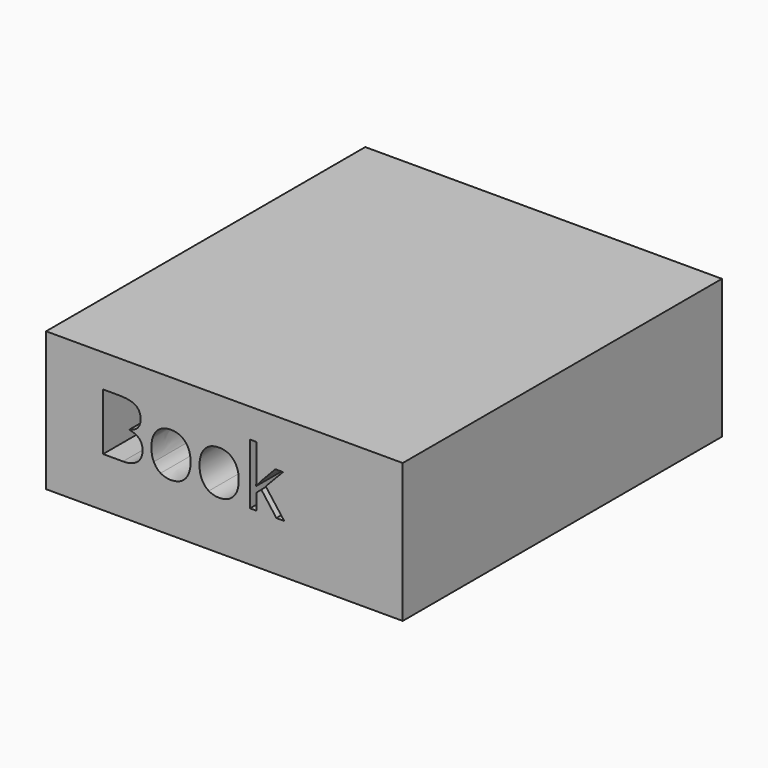
from build123d import *

# Parameters (mm, degrees)
F0_W     = 749.3
F0_H     = 292.1
F1_DEPTH = 838.2


with BuildPart() as f1:
    # F0 (on Front) → F1 (new body)
    with BuildSketch(Plane.XZ):
        with Locations((-61.3742305432, -53.1933567903)):
            Rectangle(F0_W, F0_H)
        with BuildLine():
            Line((-316.2865395393, -95.2928215265), (-316.2865395393, 24.2856664384))
            Line((-316.2865395393, 24.2856664384), (-282.4988774769, 24.2856664384))
            add(Edge.make_bspline(
                [(-282.4988774769, 24.2856664384), (-258.7088040341, 24.2856664384), (-248.0700088147, 17.1669645942)],
                knots=[0, 0, 0, 1, 1, 1], degree=2))
            add(Edge.make_bspline(
                [(-248.0700088147, 17.1669645942), (-237.4312135952, 10.0482627499), (-237.4312135952, -5.3145239508)],
                knots=[0, 0, 0, 1, 1, 1], degree=2))
            add(Edge.make_bspline(
                [(-237.4312135952, -5.3145239508), (-237.4312135952, -15.9664050192), (-243.3591031824, -22.8757332799)],
                knots=[0, 0, 0, 1, 1, 1], degree=2))
            add(Edge.make_bspline(
                [(-243.3591031824, -22.8757332799), (-249.2869927697, -29.7850615405), (-260.6716813809, -31.8264539811)],
                knots=[0, 0, 0, 1, 1, 1], degree=2))
            Line((-260.6716813809, -31.8264539811), (-260.6716813809, -32.6377766178))
            add(Edge.make_bspline(
                [(-260.6716813809, -32.6377766178), (-233.4269438078, -37.2963388541), (-233.4269438078, -61.2696141826)],
                knots=[0, 0, 0, 1, 1, 1], degree=2))
            add(Edge.make_bspline(
                [(-233.4269438078, -61.2696141826), (-233.4269438078, -77.2866933322), (-244.2620267619, -86.2897574294)],
                knots=[0, 0, 0, 1, 1, 1], degree=2))
            add(Edge.make_bspline(
                [(-244.2620267619, -86.2897574294), (-255.0971097161, -95.2928215265), (-274.568852996, -95.2928215265)],
                knots=[0, 0, 0, 1, 1, 1], degree=2))
            Line((-274.568852996, -95.2928215265), (-316.2865395393, -95.2928215265))
        make_face(mode=Mode.SUBTRACT)
        with BuildLine():
            add(Edge.make_bspline(
                [(-143.514075477, -16.5290965253), (-132.4303613922, -29.0522539977), (-132.4303613922, -50.3821878325)],
                knots=[0, 0, 0, 1, 1, 1], degree=2))
            add(Edge.make_bspline(
                [(-132.4303613922, -50.3821878325), (-132.4303613922, -72.3140707204), (-143.4617320811, -84.6278546091)],
                knots=[0, 0, 0, 1, 1, 1], degree=2))
            add(Edge.make_bspline(
                [(-143.4617320811, -84.6278546091), (-154.4931027699, -96.9416384978), (-173.9648460498, -96.9416384978)],
                knots=[0, 0, 0, 1, 1, 1], degree=2))
            add(Edge.make_bspline(
                [(-173.9648460498, -96.9416384978), (-186.0038271099, -96.9416384978), (-195.3209515826, -91.2885517391)],
                knots=[0, 0, 0, 1, 1, 1], degree=2))
            add(Edge.make_bspline(
                [(-195.3209515826, -91.2885517391), (-204.6380760552, -85.6354649804), (-209.7153854589, -75.0882707038)],
                knots=[0, 0, 0, 1, 1, 1], degree=2))
            add(Edge.make_bspline(
                [(-209.7153854589, -75.0882707038), (-214.7926948625, -64.5410764272), (-214.7926948625, -50.3821878325)],
                knots=[0, 0, 0, 1, 1, 1], degree=2))
            add(Edge.make_bspline(
                [(-214.7926948625, -50.3821878325), (-214.7926948625, -28.4764766426), (-203.8267534186, -16.2412078478)],
                knots=[0, 0, 0, 1, 1, 1], degree=2))
            add(Edge.make_bspline(
                [(-203.8267534186, -16.2412078478), (-192.8608119746, -4.005939053), (-173.3890686947, -4.005939053)],
                knots=[0, 0, 0, 1, 1, 1], degree=2))
            add(Edge.make_bspline(
                [(-173.3890686947, -4.005939053), (-154.5977895617, -4.005939053), (-143.514075477, -16.5290965253)],
                knots=[0, 0, 0, 1, 1, 1], degree=2))
        make_face(mode=Mode.SUBTRACT)
        with BuildLine():
            add(Edge.make_bspline(
                [(-42.3342911757, -16.5290965253), (-31.250577091, -29.0522539977), (-31.250577091, -50.3821878325)],
                knots=[0, 0, 0, 1, 1, 1], degree=2))
            add(Edge.make_bspline(
                [(-31.250577091, -50.3821878325), (-31.250577091, -72.3140707204), (-42.2819477798, -84.6278546091)],
                knots=[0, 0, 0, 1, 1, 1], degree=2))
            add(Edge.make_bspline(
                [(-42.2819477798, -84.6278546091), (-53.3133184686, -96.9416384978), (-72.7850617485, -96.9416384978)],
                knots=[0, 0, 0, 1, 1, 1], degree=2))
            add(Edge.make_bspline(
                [(-72.7850617485, -96.9416384978), (-84.8240428087, -96.9416384978), (-94.1411672813, -91.2885517391)],
                knots=[0, 0, 0, 1, 1, 1], degree=2))
            add(Edge.make_bspline(
                [(-94.1411672813, -91.2885517391), (-103.458291754, -85.6354649804), (-108.5356011576, -75.0882707038)],
                knots=[0, 0, 0, 1, 1, 1], degree=2))
            add(Edge.make_bspline(
                [(-108.5356011576, -75.0882707038), (-113.6129105612, -64.5410764272), (-113.6129105612, -50.3821878325)],
                knots=[0, 0, 0, 1, 1, 1], degree=2))
            add(Edge.make_bspline(
                [(-113.6129105612, -50.3821878325), (-113.6129105612, -28.4764766426), (-102.6469691173, -16.2412078478)],
                knots=[0, 0, 0, 1, 1, 1], degree=2))
            add(Edge.make_bspline(
                [(-102.6469691173, -16.2412078478), (-91.6810276734, -4.005939053), (-72.2092843935, -4.005939053)],
                knots=[0, 0, 0, 1, 1, 1], degree=2))
            add(Edge.make_bspline(
                [(-72.2092843935, -4.005939053), (-53.4180052604, -4.005939053), (-42.3342911757, -16.5290965253)],
                knots=[0, 0, 0, 1, 1, 1], degree=2))
        make_face(mode=Mode.SUBTRACT)
        with BuildLine():
            Line((5.3374566527, -49.4138350081), (5.9917491017, -49.4138350081))
            add(Edge.make_bspline(
                [(5.9917491017, -49.4138350081), (9.4987566279, -44.4150406984), (16.695973566, -36.3279860297)],
                knots=[0, 0, 0, 1, 1, 1], degree=2))
            Line((16.695973566, -36.3279860297), (45.6418715063, -5.6547560242))
            Line((45.6418715063, -5.6547560242), (61.7636374478, -5.6547560242))
            Line((61.7636374478, -5.6547560242), (25.4373206836, -43.8392633433))
            Line((25.4373206836, -43.8392633433), (64.3022921496, -95.2928215265))
            Line((64.3022921496, -95.2928215265), (47.8664658327, -95.2928215265))
            Line((47.8664658327, -95.2928215265), (16.1987113048, -52.9208425344))
            Line((16.1987113048, -52.9208425344), (5.9917491017, -61.7668764438))
            Line((5.9917491017, -61.7668764438), (5.9917491017, -95.2928215265))
            Line((5.9917491017, -95.2928215265), (-7.4343319502, -95.2928215265))
            Line((-7.4343319502, -95.2928215265), (-7.4343319502, 31.9801456377))
            Line((-7.4343319502, 31.9801456377), (5.9917491017, 31.9801456377))
            Line((5.9917491017, 31.9801456377), (5.9917491017, -35.516663393))
            add(Edge.make_bspline(
                [(5.9917491017, -35.516663393), (5.9917491017, -39.9920237437), (5.3374566527, -49.4138350081)],
                knots=[0, 0, 0, 1, 1, 1], degree=2))
        make_face(mode=Mode.SUBTRACT)
    extrude(amount=F1_DEPTH)


solid = f1.part
